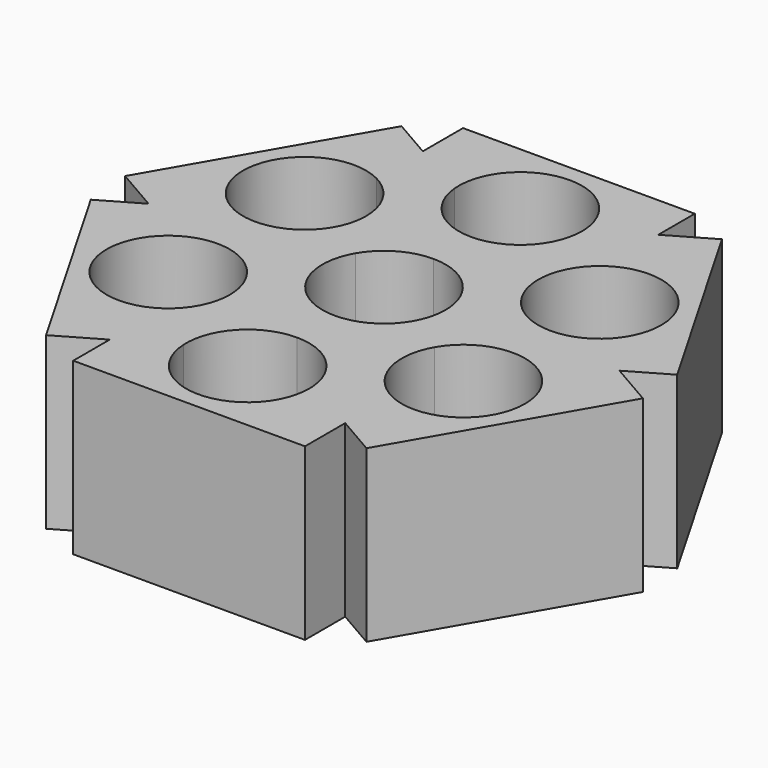
from build123d import *

# Parameters (mm, degrees)
F1_DEPTH = 30.48


with BuildPart() as f1:
    # F0 (on Top) → F1 (new body)
    with BuildSketch(Plane.XY):
        with BuildLine():
            ThreePointArc((9.5357191185, 5.50545), (10.6357126807, 2.8498306237), (11.0109, 0))
            ThreePointArc((11.0109, 0), (10.6357126807, -2.8498306237), (9.5357191185, -5.50545))
            Line((9.5357191185, -5.50545), (16.8607351888, -9.73455))
            ThreePointArc((16.8607351888, -9.73455), (23.039686637, -4.7532450387), (30.9627198303, -5.2205619926))
            Line((30.9627198303, -5.2205619926), (41.444029659, 0.8308250585))
            Line((41.444029659, 0.8308250585), (32.4346536017, 6.0323907505))
            ThreePointArc((32.4346536017, 6.0323907505), (23.8499553367, 4.5276117601), (16.8607351888, 9.73455))
            Line((16.8607351888, 9.73455), (9.5357191185, 5.50545))
        make_face()
        with BuildLine():
            ThreePointArc((0, 11.0109), (5.50545, 9.5357191185), (9.5357191185, 5.50545))
            Line((9.5357191185, 5.50545), (16.8607351888, 9.73455))
            ThreePointArc((16.8607351888, 9.73455), (15.6362742725, 17.5763314035), (20.0024992228, 24.204220947))
            Line((20.0024992228, 24.204220947), (20.0024992228, 36.3069950492))
            Line((20.0024992228, 36.3069950492), (10.9931231654, 31.1054293572))
            ThreePointArc((10.9931231654, 31.1054293572), (11.0064548941, 30.7928409727), (11.0109, 30.48))
            ThreePointArc((11.0109, 30.48), (7.785882057, 22.694117943), (0, 19.4691))
            Line((0, 19.4691), (0, 11.0109))
        make_face()
        with BuildLine():
            Line((16.8607351888, -9.73455), (9.5357191185, -5.50545))
            ThreePointArc((9.5357191185, -5.50545), (5.50545, -9.5357191185), (0, -11.0109))
            Line((0, -11.0109), (0, -19.4691))
            ThreePointArc((0, -19.4691), (7.4034123646, -22.3295764423), (10.9602206075, -29.4247829396))
            Line((10.9602206075, -29.4247829396), (21.4415304363, -35.4761699907))
            Line((21.4415304363, -35.4761699907), (21.4415304363, -25.0730386068))
            ThreePointArc((21.4415304363, -25.0730386068), (15.8460044711, -18.3908613207), (16.8607351888, -9.73455))
        make_face()
        with BuildLine():
            ThreePointArc((-9.5357191185, 5.50545), (-5.50545, 9.5357191185), (0, 11.0109))
            Line((0, 11.0109), (0, 19.4691))
            ThreePointArc((0, 19.4691), (-7.4034123646, 22.3295764423), (-10.9602206075, 29.4247829396))
            Line((-10.9602206075, 29.4247829396), (-21.4415304363, 35.4761699907))
            Line((-21.4415304363, 35.4761699907), (-21.4415304363, 25.0730386068))
            ThreePointArc((-21.4415304363, 25.0730386068), (-17.0210052498, 21.0141556767), (-15.3855543073, 15.24))
            ThreePointArc((-15.3855543073, 15.24), (-15.7607416267, 12.3901693763), (-16.8607351888, 9.73455))
            Line((-16.8607351888, 9.73455), (-9.5357191185, 5.50545))
        make_face()
        with BuildLine():
            Line((0, -19.4691), (0, -11.0109))
            ThreePointArc((0, -11.0109), (-5.50545, -9.5357191185), (-9.5357191185, -5.50545))
            Line((-9.5357191185, -5.50545), (-16.8607351888, -9.73455))
            ThreePointArc((-16.8607351888, -9.73455), (-15.7607416267, -12.3901693763), (-15.3855543073, -15.24))
            ThreePointArc((-15.3855543073, -15.24), (-16.6076055791, -20.2816623632), (-20.0024992228, -24.204220947))
            Line((-20.0024992228, -24.204220947), (-20.0024992228, -36.3069950492))
            Line((-20.0024992228, -36.3069950492), (-10.9931231654, -31.1054293572))
            ThreePointArc((-10.9931231654, -31.1054293572), (-8.0039508656, -22.9184730808), (0, -19.4691))
        make_face()
        with BuildLine():
            ThreePointArc((-9.5357191185, -5.50545), (-11.0109, 0), (-9.5357191185, 5.50545))
            Line((-9.5357191185, 5.50545), (-16.8607351888, 9.73455))
            ThreePointArc((-16.8607351888, 9.73455), (-23.039686637, 4.7532450387), (-30.9627198303, 5.2205619926))
            Line((-30.9627198303, 5.2205619926), (-41.444029659, -0.8308250585))
            Line((-41.444029659, -0.8308250585), (-32.4346536017, -6.0323907505))
            ThreePointArc((-32.4346536017, -6.0323907505), (-23.8499553367, -4.5276117601), (-16.8607351888, -9.73455))
            Line((-16.8607351888, -9.73455), (-9.5357191185, -5.50545))
        make_face()
        with BuildLine():
            Line((20.0024992228, 36.3069950492), (20.0024992228, 24.204220947))
            ThreePointArc((20.0024992228, 24.204220947), (31.4381166706, 25.0288487283), (37.4073543073, 15.24))
            ThreePointArc((37.4073543073, 15.24), (36.0847443376, 10.0077007826), (32.4346536017, 6.0323907505))
            Line((32.4346536017, 6.0323907505), (41.444029659, 0.8308250585))
            Line((41.444029659, 0.8308250585), (48.509925581, 4.9103219711))
            Line((48.509925581, 4.9103219711), (27.7879107515, 40.8019044911))
            Line((27.7879107515, 40.8019044911), (20.0024992228, 36.3069950492))
        make_face()
        with BuildLine():
            Line((41.444029659, 0.8308250585), (30.9627198303, -5.2205619926))
            ThreePointArc((30.9627198303, -5.2205619926), (35.6570863553, -9.2834395091), (37.4073543073, -15.24))
            ThreePointArc((37.4073543073, -15.24), (32.1706099841, -24.6154490576), (21.4415304363, -25.0730386068))
            Line((21.4415304363, -25.0730386068), (21.4415304363, -35.4761699907))
            Line((21.4415304363, -35.4761699907), (28.5074263583, -39.5556669033))
            Line((28.5074263583, -39.5556669033), (49.2294411878, -3.6640843834))
            Line((49.2294411878, -3.6640843834), (41.444029659, 0.8308250585))
        make_face()
        with BuildLine():
            Line((-21.4415304363, 35.4761699907), (-10.9602206075, 29.4247829396))
            ThreePointArc((-10.9602206075, 29.4247829396), (-0.8404842294, 41.4587752081), (10.9931231654, 31.1054293572))
            Line((10.9931231654, 31.1054293572), (20.0024992228, 36.3069950492))
            Line((20.0024992228, 36.3069950492), (20.0024992228, 44.4659888744))
            Line((20.0024992228, 44.4659888744), (-21.4415304363, 44.4659888744))
            Line((-21.4415304363, 44.4659888744), (-21.4415304363, 35.4761699907))
        make_face()
        with BuildLine():
            Line((21.4415304363, -35.4761699907), (10.9602206075, -29.4247829396))
            ThreePointArc((10.9602206075, -29.4247829396), (10.9982228541, -29.9517833197), (11.0109, -30.48))
            ThreePointArc((11.0109, -30.48), (0.3128409727, -41.4864548941), (-10.9931231654, -31.1054293572))
            Line((-10.9931231654, -31.1054293572), (-20.0024992228, -36.3069950492))
            Line((-20.0024992228, -36.3069950492), (-20.0024992228, -44.4659888744))
            Line((-20.0024992228, -44.4659888744), (21.4415304363, -44.4659888744))
            Line((21.4415304363, -44.4659888744), (21.4415304363, -35.4761699907))
        make_face()
        with BuildLine():
            Line((-41.444029659, -0.8308250585), (-30.9627198303, 5.2205619926))
            ThreePointArc((-30.9627198303, 5.2205619926), (-36.3245946547, 20.0015069099), (-21.4415304363, 25.0730386068))
            Line((-21.4415304363, 25.0730386068), (-21.4415304363, 35.4761699907))
            Line((-21.4415304363, 35.4761699907), (-28.5074263583, 39.5556669033))
            Line((-28.5074263583, 39.5556669033), (-49.2294411878, 3.6640843834))
            Line((-49.2294411878, 3.6640843834), (-41.444029659, -0.8308250585))
        make_face()
        with BuildLine():
            ThreePointArc((-20.0024992228, -24.204220947), (-35.4841104253, -21.4572682982), (-32.4346536017, -6.0323907505))
            Line((-32.4346536017, -6.0323907505), (-41.444029659, -0.8308250585))
            Line((-41.444029659, -0.8308250585), (-48.509925581, -4.9103219711))
            Line((-48.509925581, -4.9103219711), (-27.7879107515, -40.8019044911))
            Line((-27.7879107515, -40.8019044911), (-20.0024992228, -36.3069950492))
            Line((-20.0024992228, -36.3069950492), (-20.0024992228, -24.204220947))
        make_face()
    extrude(amount=F1_DEPTH)


solid = f1.part
